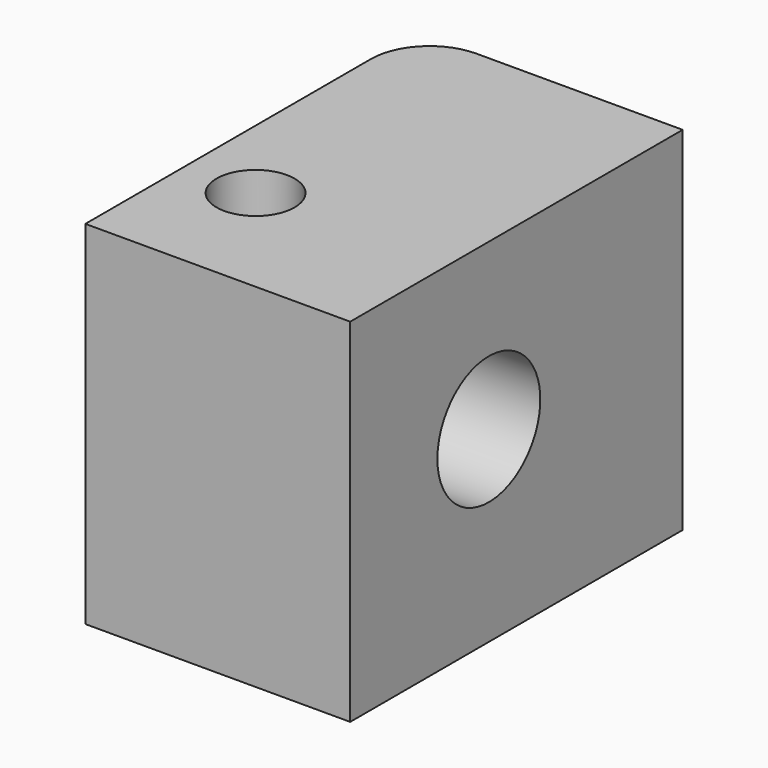
from build123d import *

# Parameters (mm, degrees)
F1_DEPTH = 76.2
F2_R     = 8.443536
F3_DEPTH = 76.201
F4_R     = 13.907635
F5_DEPTH = 57.279376


with BuildPart() as f1:
    # F0 (on Top) → F1 (new body)
    with BuildSketch(Plane.XY):
        with BuildLine():
            Line((-28.639188, 32.2339), (-28.639188, -44.9339))
            Line((-28.639188, -44.9339), (28.639188, -44.9339))
            Line((28.639188, -44.9339), (28.639188, 44.9339))
            Line((28.639188, 44.9339), (-15.939188, 44.9339))
            ThreePointArc((-15.939188, 44.9339), (-24.919444, 41.214156), (-28.639188, 32.2339))
        make_face()
    extrude(amount=F1_DEPTH)

    # F2 (on face) → F3 (cut, through all)
    with BuildSketch(Plane.XY.offset(76.2)):
        with Locations((-13.24562, -18.163707)):
            Circle(F2_R)
    extrude(amount=-F3_DEPTH, mode=Mode.SUBTRACT)

    # F4 (on face) → F5 (cut, through all)
    with BuildSketch(Plane(origin=(-28.639188, 0, 0), x_dir=(0, -1, 0), z_dir=(-1, 0, 0))):
        with Locations((7.457322, 40.499449)):
            Circle(F4_R)
    extrude(amount=-F5_DEPTH, mode=Mode.SUBTRACT)


solid = f1.part
